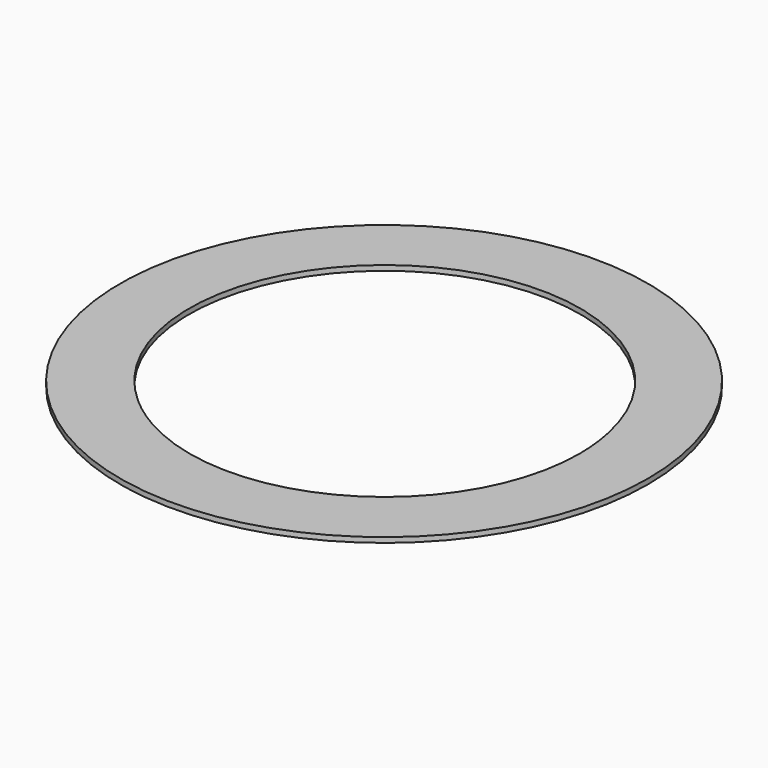
from build123d import *

# Parameters (mm, degrees)
F0_R     = 310
F1_DEPTH = 6


with BuildPart() as f1:
    # F0 (on Top) → F1 (new body)
    with BuildSketch(Plane.XY):
        Circle(F0_R)
        with BuildLine():
            ThreePointArc((-113.218713, -199.05407), (-133.180711, -186.289823), (-151.716941, -171.53125))
            ThreePointArc((-151.716941, -171.53125), (-115.4611, 199.629799), (225.004927, 47.452615))
            ThreePointArc((225.004927, 47.452615), (228.83092, 23.543446), (230.111022, -0.636048))
            ThreePointArc((230.111022, -0.636048), (115.696123, -198.906708), (-113.218713, -199.05407))
        make_face(mode=Mode.SUBTRACT)
    extrude(amount=F1_DEPTH)


solid = f1.part
